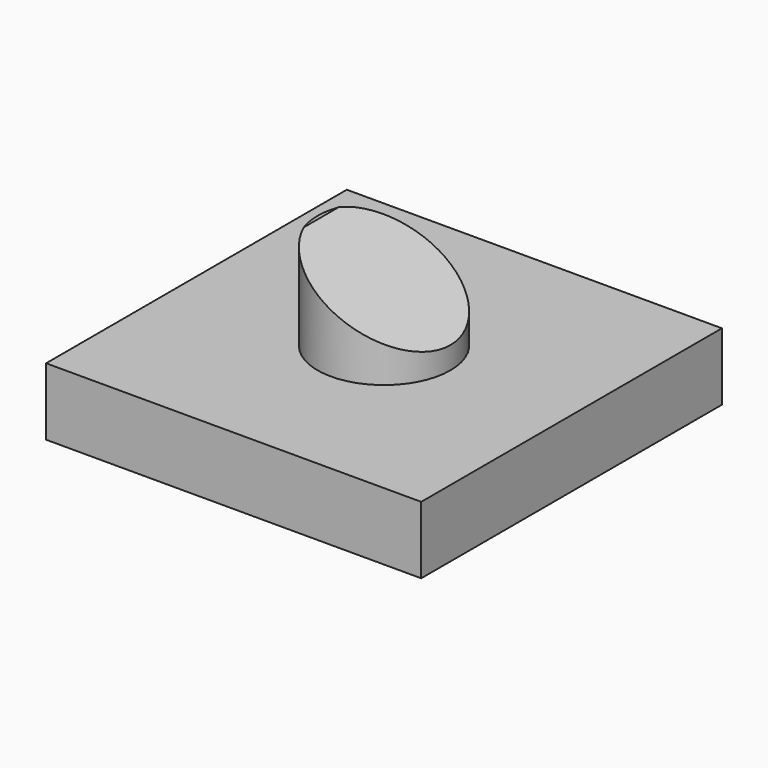
from build123d import *

# Parameters (mm, degrees)
F0_W     = 75.017012
F0_H     = 75.16501
F1_DEPTH = 13.462
F2_R     = 13.296545
F3_DEPTH = 18.542
F5_DEPTH = 21.336


with BuildPart() as f1:
    # F0 (on Top) → F1 (new body)
    with BuildSketch(Plane.XY):
        Rectangle(F0_W, F0_H)
        Rectangle(F0_W, F0_H)
    extrude(amount=F1_DEPTH)

    # F2 (on face) → F3 (join)
    with BuildSketch(Plane.XY.offset(13.462)):
        Circle(F2_R)
    extrude(amount=F3_DEPTH)

    # F4 (on Front) → F5 (cut, symmetric)
    with BuildSketch(Plane.XZ):
        Polygon((14.776042, 34.1333), (-13.614605, 32.584719), (14.776042, 17.098911), align=None)
    extrude(amount=F5_DEPTH, both=True, mode=Mode.SUBTRACT)


solid = f1.part
